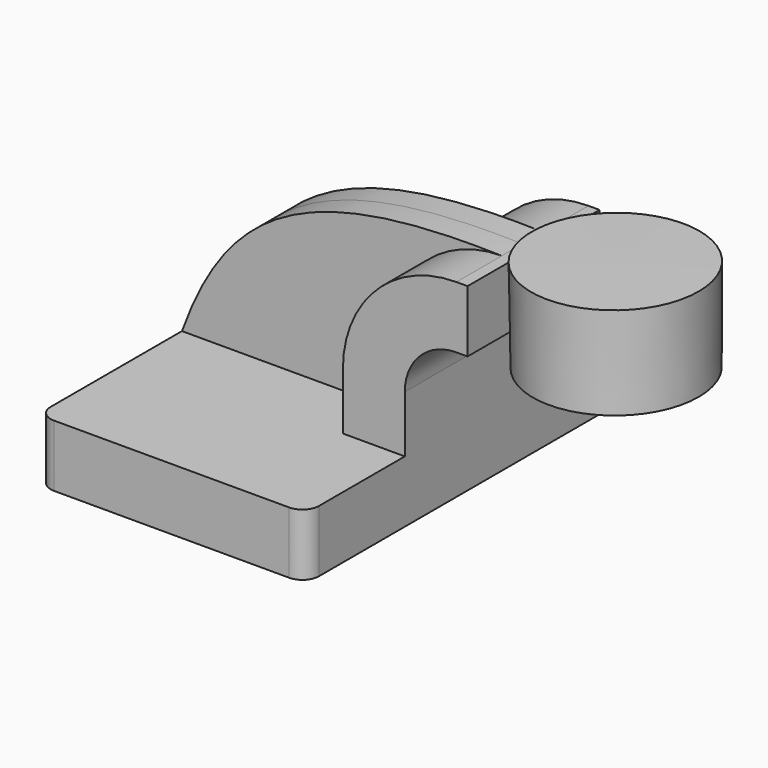
from build123d import *

# Parameters (mm, degrees)
F1_DEPTH = 63.5
F2_DEPTH = 25.4
F3_DEPTH = 7.9375
F5_R     = 5.08


with BuildPart() as f1:
    # F0 (on Front) → F1 (new body, symmetric)
    with BuildSketch(Plane.XZ):
        Polygon((22.2249999642, 9.525), (-41.275, 9.525), (-41.275, -9.525), (41.275, -9.525), (41.275, 9.525), align=None)
    extrude(amount=F1_DEPTH, both=True)

    # F0 (on Front) → F2 (join, symmetric)
    with BuildSketch(Plane.XZ):
        with BuildLine():
            Line((22.2249999642, 27.0002), (22.2249999642, 9.525))
            Line((22.2249999642, 9.525), (41.275, 9.525))
            Line((41.275, 9.525), (41.275, 27.0002))
            ThreePointArc((41.275, 27.0002), (45.9246798487, 38.2255201513), (57.15, 42.8752))
            Line((57.15, 42.8752), (60.587947001, 42.8752))
            Line((60.587947001, 42.8752), (60.587947001, 61.9252000358))
            Line((60.587947001, 61.9252000358), (57.15, 61.9252000358))
            ThreePointArc((57.15, 61.9252000358), (32.4542956418, 51.6959043582), (22.2249999642, 27.0002))
        make_face()
    extrude(amount=F2_DEPTH, both=True)

    # F0 (on Front) → F3 (join, symmetric)
    with BuildSketch(Plane.XZ):
        with BuildLine():
            add(Edge.make_bspline(
                [(-41.275, 9.525), (-27.342395857, 48.1158420444), (-3.4818400163, 63.5879263282), (57.15, 61.9252000358)],
                knots=[0, 0, 0, 0, 111.5045361803, 111.5045361803, 111.5045361803, 111.5045361803], degree=3))
            Line((-41.275, 9.525), (22.2249999642, 9.525))
            Line((22.2249999642, 9.525), (22.2249999642, 27.0002))
            ThreePointArc((22.2249999642, 27.0002), (32.4542956418, 51.6959043582), (57.15, 61.9252000358))
        make_face()
    extrude(amount=F3_DEPTH, both=True)

    # F0 (on Front) → F4 (revolve)
    with BuildSketch(Plane.XZ):
        Polygon((111.387947001, 66.675), (85.725, 66.675), (85.987947001, 38.1), (111.387947001, 38.1), align=None)
    revolve(axis=Axis((85.8564735005, 0, 52.3875), (-0.0092016052, 0, 0.9999576643)))

    # F5
    f5_edges = [f1.edges().sort_by_distance(p)[0] for p in [
        (41.275, -63.5, 0),
        (-41.275, -63.5, 0),
        (41.275, 63.5, 0),
        (-41.275, 63.5, 0),
    ]]
    fillet(f5_edges, radius=F5_R)


solid = f1.part
